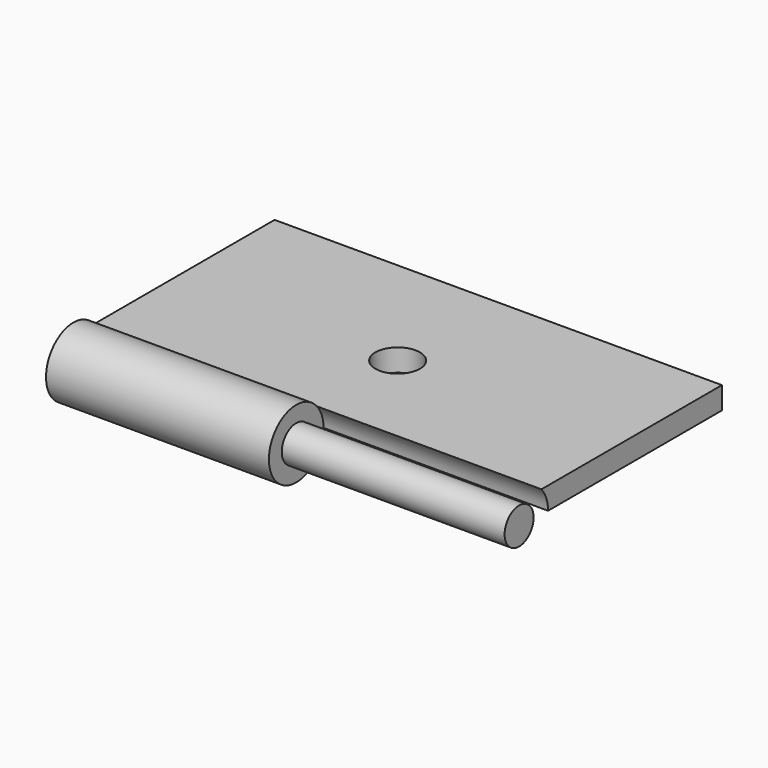
from build123d import *

# Parameters (mm, degrees)
F0_W      = 10.0359702483
F0_H      = 5.6423433125
F1_DEPTH  = 1
F2_R      = 0.7668699523
F3_DEPTH  = 10.08
F4_DEPTH  = 5
F5_R      = 0.4064089658
F6_DEPTH  = 10
F8_D      = 1
F8_DEPTH  = 2
F8_TIP    = 0.3004303095
F9_W      = 5.0608886507
F9_H      = 0.5
F10_DEPTH = 25


with BuildPart() as f1:
    # F0 (on Top) → F1 (new body)
    with BuildSketch(Plane.XY):
        Rectangle(F0_W, F0_H)
    extrude(amount=F1_DEPTH)

    # F2 (on face) → F3 (cut)
    with BuildSketch(Plane(origin=(-5.0179851241, 0, 0), x_dir=(0, -1, 0), z_dir=(-1, 0, 0))):
        with Locations((2.8211716563, 0.5)):
            Circle(F2_R)
    extrude(amount=-F3_DEPTH, mode=Mode.SUBTRACT)

    # F2 (on face) → F4 (join)
    with BuildSketch(Plane(origin=(-5.0179851241, 0, 0), x_dir=(0, -1, 0), z_dir=(-1, 0, 0))):
        with Locations((2.8211716563, 0.5)):
            Circle(F2_R)
    extrude(amount=-F4_DEPTH)

    # F5 (on face) → F6 (join)
    with BuildSketch(Plane(origin=(-5.0179851241, 0, 0), x_dir=(0, -1, 0), z_dir=(-1, 0, 0))):
        with Locations((2.8211716563, 0.5)):
            Circle(F5_R)
    extrude(amount=-F6_DEPTH)

    # F8
    with Locations(Plane.XY.offset(1)):
        with Locations((0, 0)):
            Hole(F8_D / 2, depth=F8_DEPTH)
            with Locations((0, 0, -(F8_DEPTH + F8_TIP / 2))):  # 118° drill point
                Cone(0, F8_D / 2, F8_TIP, mode=Mode.SUBTRACT)

    # F9 (on face) → F10 (cut)
    with BuildSketch(Plane.YZ.offset(5.0179851241)):
        with Locations((0.2907273309, 0.25)):
            Rectangle(F9_W, F9_H)
    extrude(amount=-F10_DEPTH, mode=Mode.SUBTRACT)


solid = f1.part
